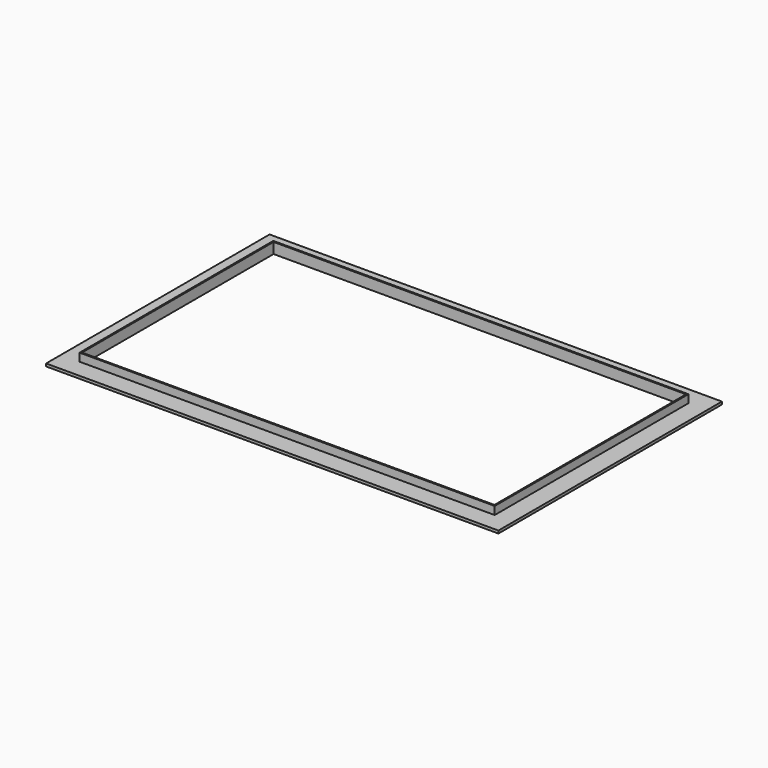
from build123d import *

# Parameters (mm, degrees)
SKETCH_W        = 170
SKETCH_H        = 105
PAD_DEPTH       = 1
SKETCH001_W     = 156
SKETCH001_H     = 91
SKETCH001_W_2   = 155
SKETCH001_H_2   = 90
PAD001_DEPTH    = 3
PAD001_FACE16_W = 90
PAD001_FACE16_H = 155
POCKET_DEPTH    = 5


with BuildPart() as part:
    # Sketch → Pad (new body)
    with BuildSketch(Plane.XY):
        Rectangle(SKETCH_W, SKETCH_H)
    extrude(amount=PAD_DEPTH)

    # Sketch001 (on Face6 of Pad) → Pad001 (join)
    with BuildSketch(Plane.XY.offset(1)):
        Rectangle(SKETCH001_W, SKETCH001_H)
        Rectangle(SKETCH001_W_2, SKETCH001_H_2, mode=Mode.SUBTRACT)
    extrude(amount=PAD001_DEPTH)

    # Pad001 Face16 → Pocket (cut)
    with BuildSketch(Plane(origin=(0, 0, 1), x_dir=(0, 1, 0), z_dir=(0, 0, 1))):
        Rectangle(PAD001_FACE16_W, PAD001_FACE16_H)
    extrude(amount=-POCKET_DEPTH, mode=Mode.SUBTRACT)


solid = part.part
